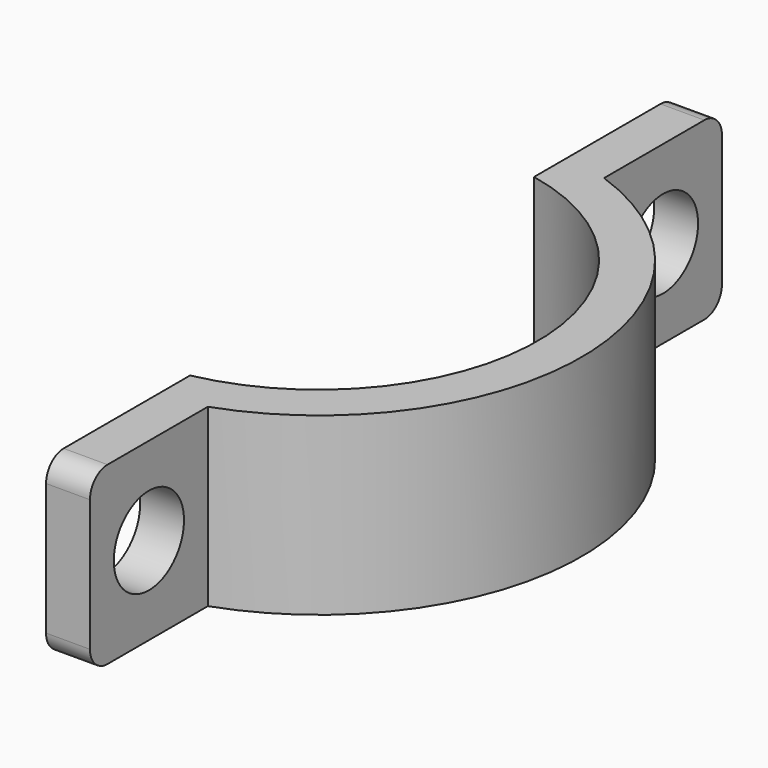
from build123d import *

# Parameters (mm, degrees)
F1_DEPTH = 12.7
F2_R     = 1.5875
F4_D     = 6.35


with BuildPart() as f1:
    # F0 (on Top) → F1 (new body)
    with BuildSketch(Plane.XY):
        with BuildLine():
            ThreePointArc((3.175, 15.5542598667), (15.875, 0), (3.175, -15.5542598667))
            Line((3.175, -15.5542598667), (3.175, -18.7292598667))
            ThreePointArc((3.175, -18.7292598667), (4.7801025689, -18.3908223826), (6.35, -17.9150953144))
            ThreePointArc((6.35, -17.9150953144), (19.05, 0), (6.35, 17.9150953144))
            ThreePointArc((6.35, 17.9150953144), (4.7801025689, 18.3908223826), (3.175, 18.7292598667))
            Line((3.175, 18.7292598667), (3.175, 15.5542598667))
        make_face()
        with BuildLine():
            Line((3.175, 28.575), (3.175, 18.7292598667))
            ThreePointArc((3.175, 18.7292598667), (4.7801025689, 18.3908223826), (6.35, 17.9150953144))
            Line((6.35, 17.9150953144), (6.35, 28.575))
            Line((6.35, 28.575), (3.175, 28.575))
        make_face()
        with BuildLine():
            ThreePointArc((6.35, -17.9150953144), (4.7801025689, -18.3908223826), (3.175, -18.7292598667))
            Line((3.175, -18.7292598667), (3.175, -28.575))
            Line((3.175, -28.575), (6.35, -28.575))
            Line((6.35, -28.575), (6.35, -17.9150953144))
        make_face()
    extrude(amount=F1_DEPTH)

    # F2
    f2_edges = [f1.edges().sort_by_distance(p)[0] for p in [
        (4.7625, 28.575, 12.7),
        (4.7625, 28.575, 0),
        (4.7625, -28.575, 0),
        (4.7625, -28.575, 12.7),
    ]]
    fillet(f2_edges, radius=F2_R)

    # F4 (through all)
    with Locations(Plane.YZ.offset(6.35)):
        with Locations((-23.2450476572, 6.35), (23.2450476572, 6.35)):
            Hole(F4_D / 2)


solid = f1.part
